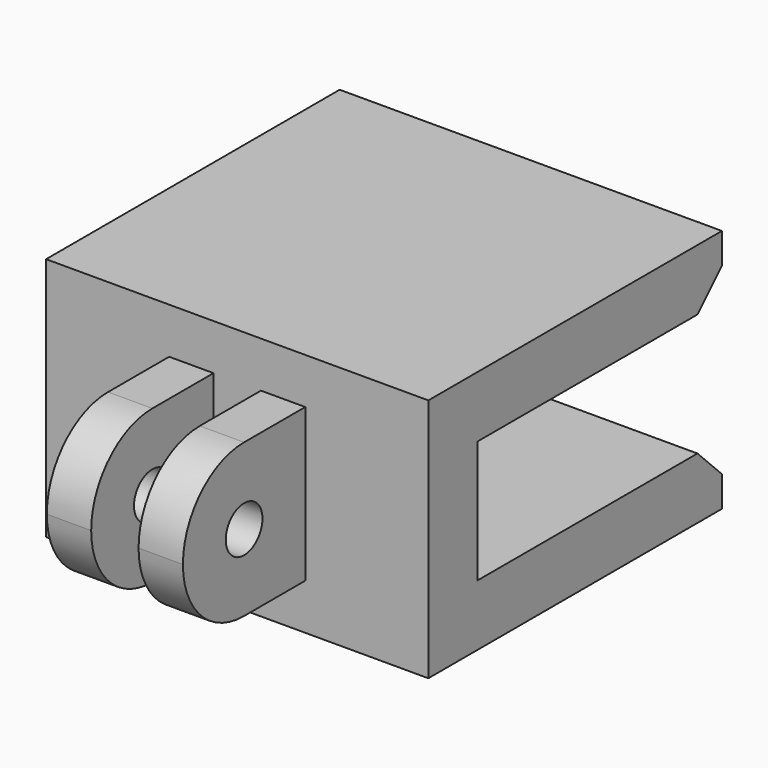
from build123d import *

# Parameters (mm, degrees)
F1_DEPTH = 25
F2_W     = 2.9
F2_H     = 10
F3_DEPTH = 10
F4_R     = 1.5
F5_DEPTH = 9
F6_SIZE  = 2


with BuildPart() as f1:
    # F0 (on Right) → F1 (new body)
    with BuildSketch(Plane.YZ):
        Polygon((-24, 0), (0, 0), (0, 4), (-20, 4), (-20, 12), (0, 12), (0, 16), (-24, 16), align=None)
    extrude(amount=F1_DEPTH)

    # F2 (on face) → F3 (join)
    with BuildSketch(Plane.XZ.offset(24)):
        with Locations((9.5, 8)):
            Rectangle(F2_W, F2_H)
        with Locations((15.5, 8)):
            Rectangle(F2_W, F2_H)
    extrude(amount=F3_DEPTH)

    # F4 (on face) → F5 (cut)
    with BuildSketch(Plane.YZ.offset(16.95)):
        with BuildLine():
            ThreePointArc((-34, 8), (-32.535534, 11.535534), (-29, 13))
            Line((-29, 13), (-34, 13))
            Line((-34, 13), (-34, 8))
        make_face()
        with BuildLine():
            ThreePointArc((-29, 3), (-32.535534, 4.464466), (-34, 8))
            Line((-34, 8), (-34, 3))
            Line((-34, 3), (-29, 3))
        make_face()
        with Locations((-29, 8)):
            Circle(F4_R)
    extrude(amount=-F5_DEPTH, mode=Mode.SUBTRACT)

    # F6
    f6_edges = [f1.edges().sort_by_distance(p)[0] for p in [
        (12.5, 0, 12),
        (12.5, 0, 4),
    ]]
    chamfer(f6_edges, length=F6_SIZE)


solid = f1.part
